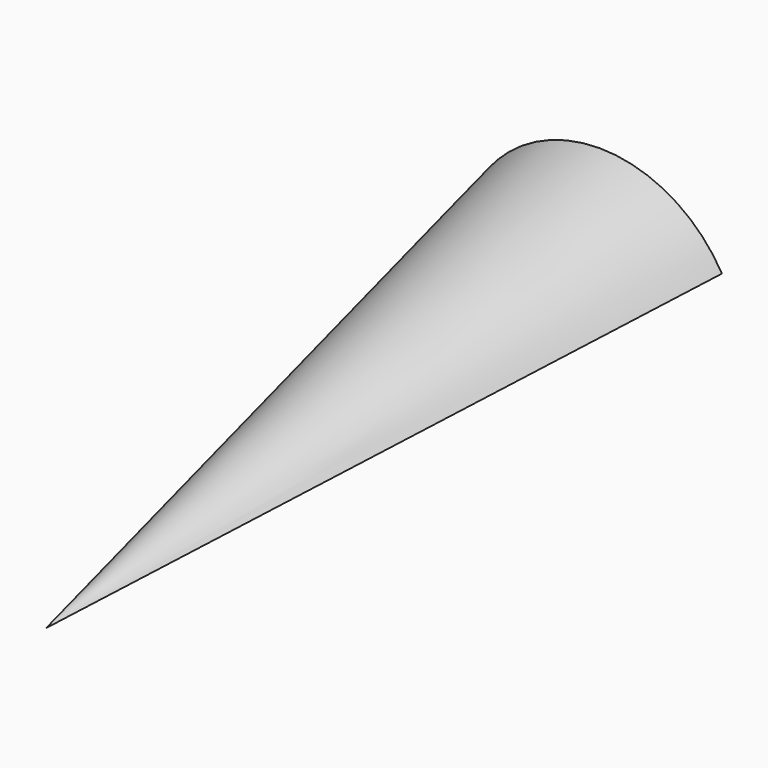
from build123d import *

# Parameters (mm, degrees)
F1_ANGLE_BACK = 60
F1_ANGLE      = 120


with BuildPart() as f1:
    # F0 (on Right) → F1 (revolve)
    with BuildSketch(Plane.YZ, mode=Mode.PRIVATE) as f1_sk:
        Polygon((-3500, -501.35), (-3500, 520.886), (-8500, -501.35), align=None)
    revolve(f1_sk.sketch.rotate(Axis((0, -6000, -501.35), (0, 1, 0)), -F1_ANGLE_BACK), axis=Axis((0, -6000, -501.35), (0, 1, 0)), revolution_arc=F1_ANGLE)


solid = f1.part
